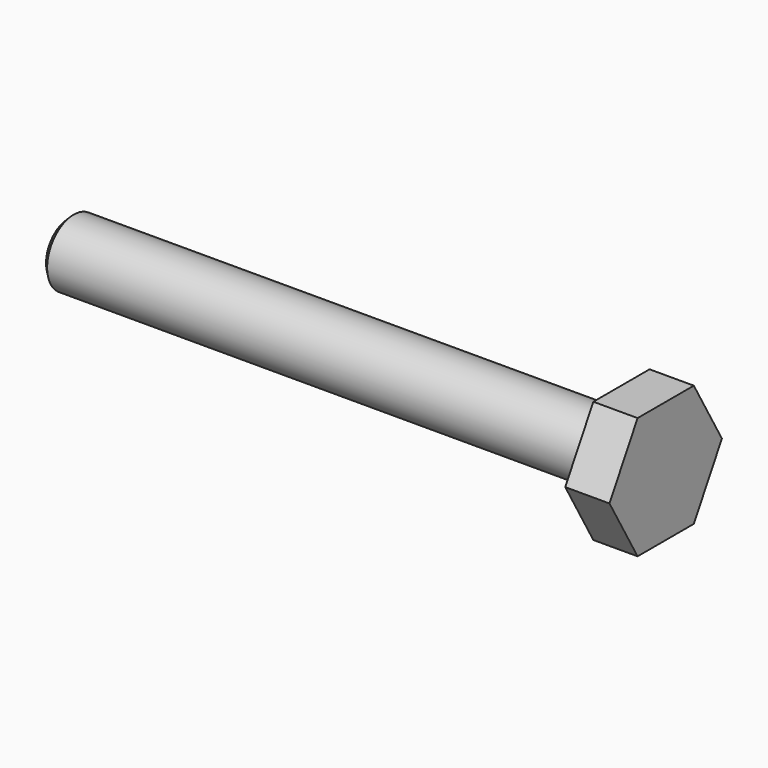
from build123d import *

# Parameters (mm, degrees)
F1_DEPTH = 2
F2_R     = 1.5
F3_DEPTH = 25
F4_SIZE  = 0.25


with BuildPart() as f1:
    # F0 (on Right) → F1 (new body)
    with BuildSketch(Plane.YZ):
        Polygon((-1.587713, -2.75), (1.587713, -2.75), (3.175426, 0), (1.587713, 2.75), (-1.587713, 2.75), (-3.175426, 0), align=None)
    extrude(amount=F1_DEPTH)

    # F2 (on Right) → F3 (join)
    with BuildSketch(Plane.YZ):
        Circle(F2_R)
    extrude(amount=-F3_DEPTH)

    # F4
    f4_edges = [f1.edges().sort_by_distance(p)[0] for p in [
        (-25, -1.5, 0),
    ]]
    chamfer(f4_edges, length=F4_SIZE)


solid = f1.part
